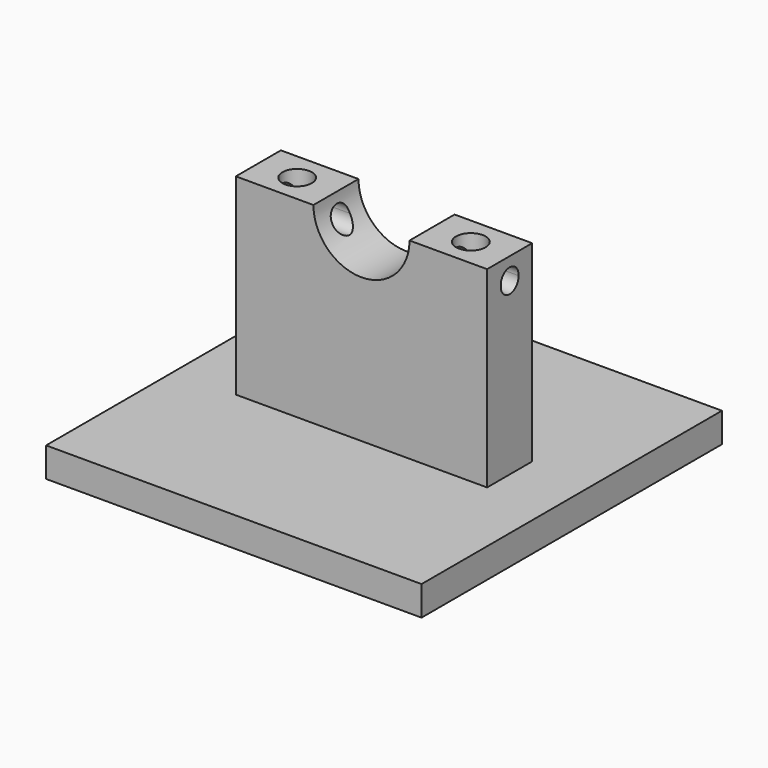
from build123d import *

# Parameters (mm, degrees)
F0_W        = 25.4
F0_H        = 25.4
F1_DEPTH    = 2
F2_W        = 17
F2_H        = 15
F3_DEPTH    = 1.905
F4_R        = 3.25
F5_DEPTH    = 2.6162
F7_D        = 2
F7_DEPTH    = 12.7
F7_TIP      = 0.600860619
F10_D       = 1.5
F10_ON_F8_D = 1.5


with BuildPart() as f1:
    # F0 (on Top) → F1 (new body)
    with BuildSketch(Plane.XY):
        Rectangle(F0_W, F0_H)
    extrude(amount=F1_DEPTH)

    # F2 (on Front) → F3 (join, symmetric)
    with BuildSketch(Plane.XZ):
        with Locations((0, 7.5)):
            Rectangle(F2_W, F2_H)
    extrude(amount=F3_DEPTH, both=True)

    # F4 (on Front) → F5 (cut, symmetric)
    with BuildSketch(Plane.XZ):
        with Locations((0, 15)):
            Circle(F4_R)
    extrude(amount=F5_DEPTH, both=True, mode=Mode.SUBTRACT)

    # F7
    with Locations(Plane.XY.offset(15)):
        with Locations((5.875, 0), (-5.875, 0)):
            Hole(F7_D / 2, depth=F7_DEPTH)
            with Locations((0, 0, -(F7_DEPTH + F7_TIP / 2))):  # 118° drill point
                Cone(0, F7_D / 2, F7_TIP, mode=Mode.SUBTRACT)

    # F10 (through all)
    with Locations(Plane.YZ.offset(8.5)):
        with Locations((0, 13.5882580653)):
            Hole(F10_D / 2)

    # F10 on F8 (through all)
    with Locations(Plane(origin=(-8.5, 0, 0), x_dir=(0, -1, 0), z_dir=(-1, 0, 0))):
        with Locations((0, 13.4879248217)):
            Hole(F10_ON_F8_D / 2)


solid = f1.part
